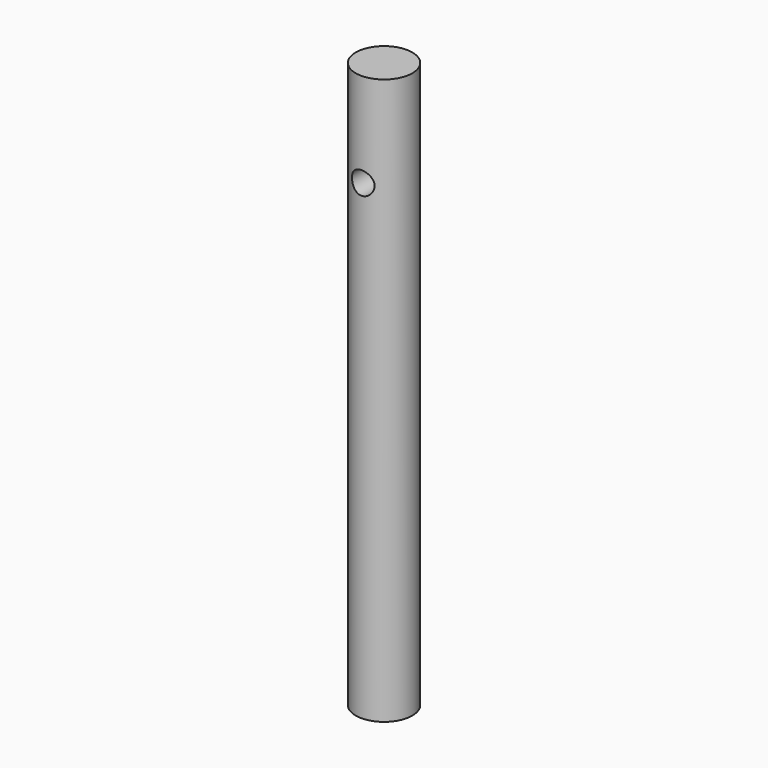
from build123d import *

# Parameters (mm, degrees)
F0_R          = 7.5
F1_DEPTH      = 75
F2_R          = 3
F3_DEPTH      = 7.501
F3_DEPTH_BACK = 7.501


with BuildPart() as f1:
    # F0 (on Top) → F1 (new body, symmetric)
    with BuildSketch(Plane.XY):
        Circle(F0_R)
    extrude(amount=F1_DEPTH, both=True)

    # F2 (on Front) → F3 (cut, two sides)
    with BuildSketch(Plane.XZ) as f3_sk:
        with Locations((0, 50)):
            Circle(F2_R)
    extrude(amount=-F3_DEPTH, mode=Mode.SUBTRACT)
    extrude(f3_sk.sketch, amount=F3_DEPTH_BACK, mode=Mode.SUBTRACT)


solid = f1.part
